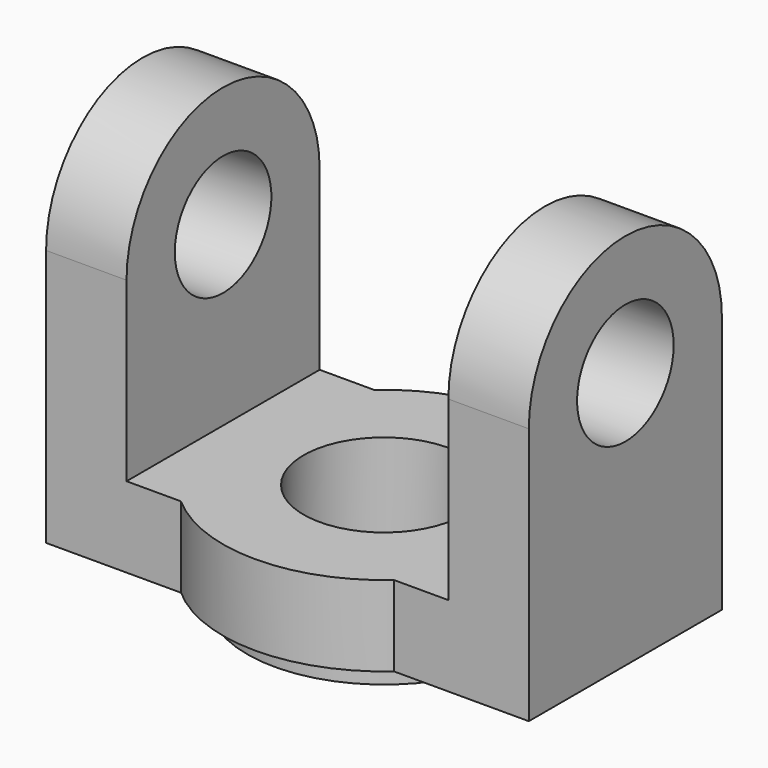
from build123d import *

# Parameters (mm, degrees)
F0_R     = 10
F1_DEPTH = 10
F2_R     = 17
F2_R_2   = 10
F3_DEPTH = 3
F4_R     = 7.5
F5_DEPTH = 10
F6_R     = 7.5
F7_DEPTH = 10


with BuildPart() as f1:
    # F0 (on Top) → F1 (new body)
    with BuildSketch(Plane.XY):
        with BuildLine():
            ThreePointArc((-13.2287565553, -15), (-20, 0), (-13.2287565553, 15))
            Line((-13.2287565553, 15), (-30, 15))
            Line((-30, 15), (-30, -15))
            Line((-30, -15), (-13.2287565553, -15))
        make_face()
        with BuildLine():
            Line((-13.2287565553, 15), (13.2287565553, 15))
            ThreePointArc((13.2287565553, 15), (0, 20), (-13.2287565553, 15))
        make_face()
        with BuildLine():
            ThreePointArc((20, 0), (18.2287565553, 8.2287565553), (13.2287565553, 15))
            Line((13.2287565553, 15), (-13.2287565553, 15))
            ThreePointArc((-13.2287565553, 15), (-20, 0), (-13.2287565553, -15))
            Line((-13.2287565553, -15), (13.2287565553, -15))
            ThreePointArc((13.2287565553, -15), (18.2287565553, -8.2287565553), (20, 0))
        make_face()
        Circle(F0_R, mode=Mode.SUBTRACT)
        with BuildLine():
            Line((30, -15), (30, 15))
            Line((30, 15), (13.2287565553, 15))
            ThreePointArc((13.2287565553, 15), (18.2287565553, 8.2287565553), (20, 0))
            ThreePointArc((20, 0), (18.2287565553, -8.2287565553), (13.2287565553, -15))
            Line((13.2287565553, -15), (30, -15))
        make_face()
        with BuildLine():
            ThreePointArc((-13.2287565553, -15), (0, -20), (13.2287565553, -15))
            Line((13.2287565553, -15), (-13.2287565553, -15))
        make_face()
    extrude(amount=F1_DEPTH)

    # F2 (on face) → F3 (join)
    with BuildSketch(Plane(origin=(0, 0, 0), x_dir=(1, 0, 0), z_dir=(0, 0, -1))):
        Circle(F2_R)
        Circle(F2_R_2, mode=Mode.SUBTRACT)
    extrude(amount=F3_DEPTH)

    # F4 (on face) → F5 (join)
    with BuildSketch(Plane.YZ.offset(30)):
        with BuildLine():
            Line((-15, 32), (-15, 10))
            Line((-15, 10), (15, 10))
            Line((15, 10), (15, 32))
            ThreePointArc((15, 32), (0, 47), (-15, 32))
        make_face()
        with Locations((0, 32)):
            Circle(F4_R, mode=Mode.SUBTRACT)
    extrude(amount=-F5_DEPTH)

    # F6 (on face) → F7 (join)
    with BuildSketch(Plane(origin=(-30, 0, 0), x_dir=(0, -1, 0), z_dir=(-1, 0, 0))):
        with BuildLine():
            Line((-15, 10), (15, 10))
            Line((15, 10), (15, 32))
            ThreePointArc((15, 32), (0, 47), (-15, 32))
            Line((-15, 32), (-15, 10))
        make_face()
        with Locations((0, 32)):
            Circle(F6_R, mode=Mode.SUBTRACT)
    extrude(amount=-F7_DEPTH)


solid = f1.part
